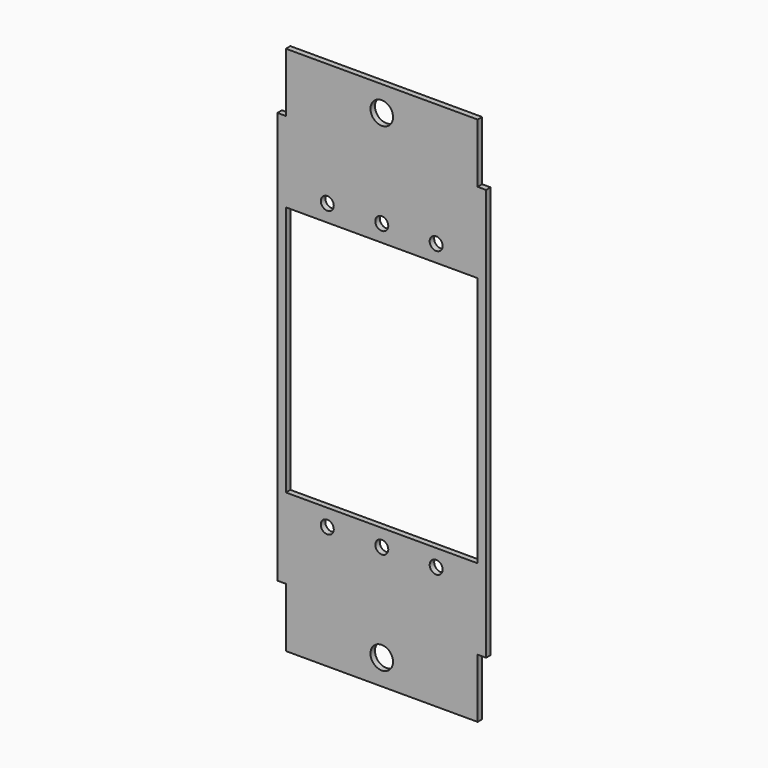
from build123d import *

# Parameters (mm, degrees)
F0_R     = 1.15
F0_R_2   = 2
F0_W     = 34
F0_H     = 44.5
F1_DEPTH = 1


with BuildPart() as f1:
    # F0 (on Front) → F1 (new body)
    with BuildSketch(Plane.XZ):
        Polygon((17, 47), (-17, 47), (-17, 36.5), (-18.5, 36.5), (-18.5, -36.5), (-17, -36.5), (-17, -47), (17, -47), (17, -36.5), (18.5, -36.5), (18.5, 36.5), (17, 36.5), align=None)
        with Locations((-9.653633, -25.25)):
            Circle(F0_R, mode=Mode.SUBTRACT)
        with Locations((0, -42.5)):
            Circle(F0_R_2, mode=Mode.SUBTRACT)
        with Locations((0.009312, -25.25)):
            Circle(F0_R, mode=Mode.SUBTRACT)
        with Locations((9.646368, -25.25)):
            Circle(F0_R, mode=Mode.SUBTRACT)
        with Locations((-0.001023, 0)):
            Rectangle(F0_W, F0_H, mode=Mode.SUBTRACT)
        with Locations((-9.653633, 25.25)):
            Circle(F0_R, mode=Mode.SUBTRACT)
        with Locations((0.009312, 25.25)):
            Circle(F0_R, mode=Mode.SUBTRACT)
        with Locations((0, 42.5)):
            Circle(F0_R_2, mode=Mode.SUBTRACT)
        with Locations((9.646368, 25.25)):
            Circle(F0_R, mode=Mode.SUBTRACT)
    extrude(amount=F1_DEPTH)


solid = f1.part
